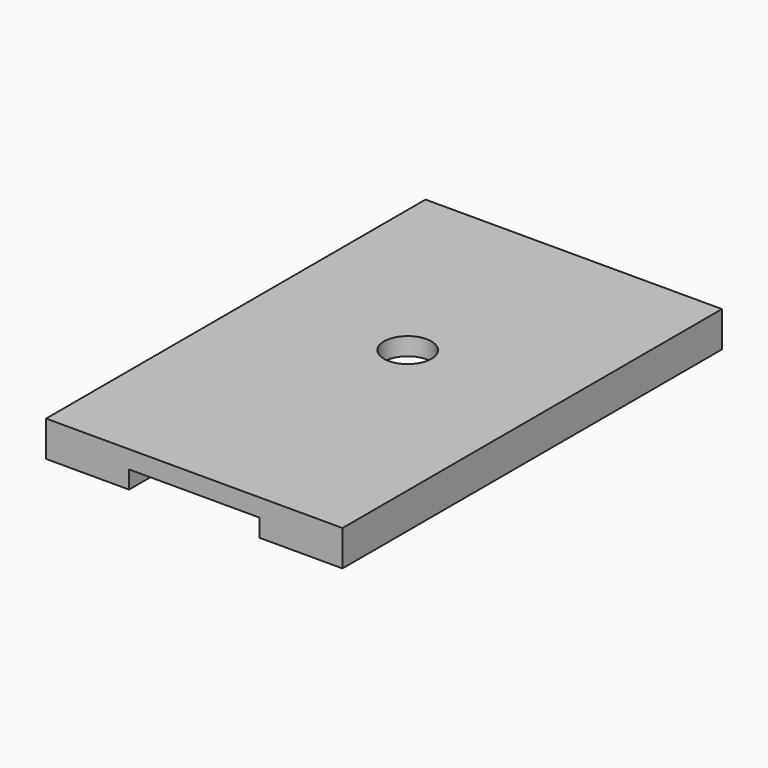
from build123d import *

# Parameters (mm, degrees)
F0_W     = 25
F0_H     = 40
F1_DEPTH = 3
F2_W     = 11
F2_H     = 40
F3_DEPTH = 1.5
F4_R     = 2
F5_DEPTH = 3.001


with BuildPart() as f1:
    # F0 (on Top) → F1 (new body)
    with BuildSketch(Plane.XY):
        Rectangle(F0_W, F0_H)
    extrude(amount=F1_DEPTH)

    # F2 (on face) → F3 (cut)
    with BuildSketch(Plane(origin=(0, 0, 0), x_dir=(1, 0, 0), z_dir=(0, 0, -1))):
        Rectangle(F2_W, F2_H)
    extrude(amount=-F3_DEPTH, mode=Mode.SUBTRACT)

    # F4 (on face) → F5 (cut, through all)
    with BuildSketch(Plane.XY.offset(3)):
        with Locations((0, 2.5)):
            Circle(F4_R)
    extrude(amount=-F5_DEPTH, mode=Mode.SUBTRACT)


solid = f1.part
